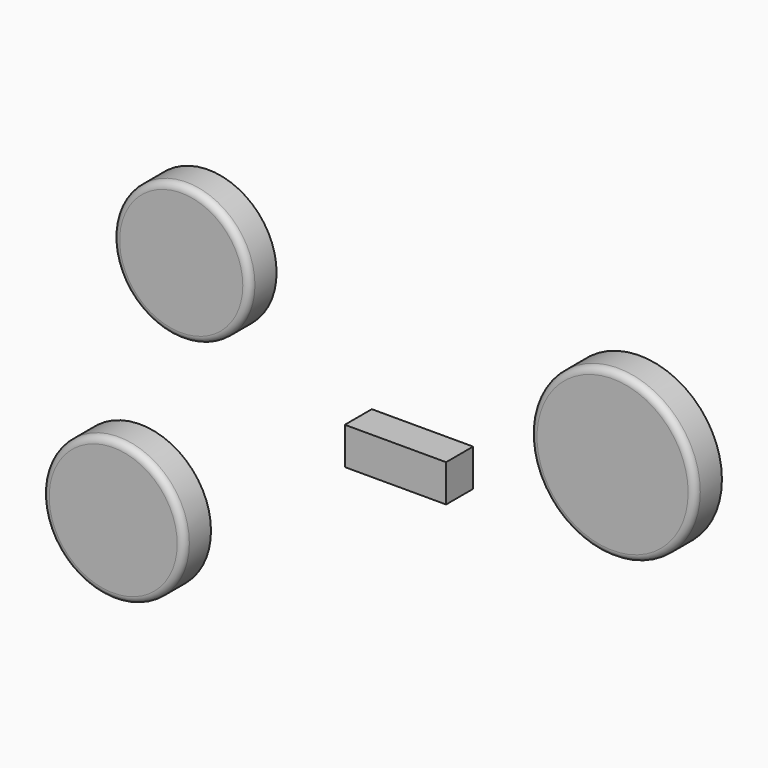
from build123d import *

# Parameters (mm, degrees)
F0_W     = 74.973681
F0_H     = 27.578301
F1_DEPTH = 25
F2_R     = 60.923252
F2_R_2   = 50.557279
F2_R_3   = 52.376378
F3_DEPTH = 25
F4_R     = 5


with BuildPart() as f1:
    # F0 (on Front) → F1 (new body)
    with BuildSketch(Plane.XZ):
        with Locations((-8.204144, 3.8287)):
            Rectangle(F0_W, F0_H)
    extrude(amount=F1_DEPTH)


with BuildPart() as f3:
    # F2 (on Front) → F3 (new body)
    with BuildSketch(Plane.XZ):
        with Locations((152.507305, 56.08888)):
            Circle(F2_R)
        with Locations((-166.736037, 83.720818)):
            Circle(F2_R_2)
        with Locations((-217.103332, -100.372329)):
            Circle(F2_R_3)
    extrude(amount=F3_DEPTH)

    # F4
    f4_edges = [f3.edges().sort_by_distance(p)[0] for p in [
        (-269.47971, -25, -100.372329),
        (-217.293315, -25, 83.720818),
        (91.584053, -25, 56.08888),
    ]]
    fillet(f4_edges, radius=F4_R)


solid = Compound([f1.part, f3.part])
